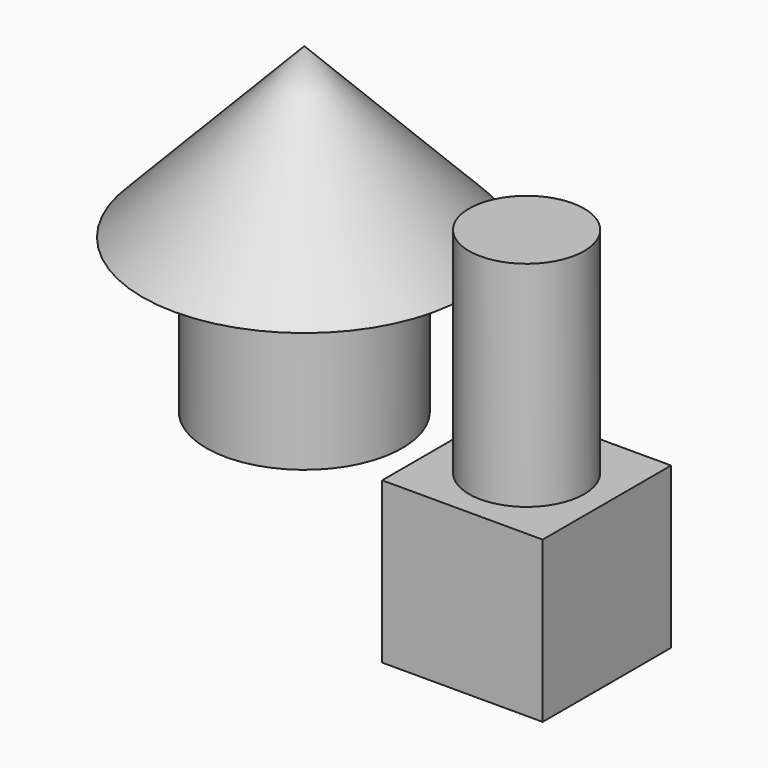
from build123d import *

# Parameters (mm, degrees)
F0_W     = 19.05
F0_H     = 19.05
F1_DEPTH = 9.525
F2_R     = 6.8287067213
F3_DEPTH = 25.4
F7_D     = 2.2606
F7_DEPTH = 14.605
F7_TIP   = 0.6791527577


with BuildPart() as f1:
    # F0 (on Top) → F1 (new body, symmetric)
    with BuildSketch(Plane.XY):
        Rectangle(F0_W, F0_H)
    extrude(amount=F1_DEPTH, both=True)

    # F2 (on face) → F3 (join)
    with BuildSketch(Plane.XY.offset(9.525)):
        Circle(F2_R)
    extrude(amount=F3_DEPTH)


with BuildPart() as f5:
    # F4 (on Front) → F5 (revolve)
    with BuildSketch(Plane.XZ):
        Polygon((-26.3804178685, 7.318645176), (-26.3804178685, 45.5416366458), (-45.6033088267, 25.559945032), (-38.0153283477, 25.559945032), (-38.0153283477, 7.318645176), align=None)
    revolve(axis=Axis((-26.3804178685, 0, 26.4301409109), (0, 0, 1)))

    # F7
    with Locations(Plane(origin=(0, 0, 7.318645176), x_dir=(1, 0, 0), z_dir=(0, 0, -1))):
        with Locations((-26.3804178685, 0)):
            Hole(F7_D / 2, depth=F7_DEPTH)
            with Locations((0, 0, -(F7_DEPTH + F7_TIP / 2))):  # 118° drill point
                Cone(0, F7_D / 2, F7_TIP, mode=Mode.SUBTRACT)


solid = Compound([f1.part, f5.part])
